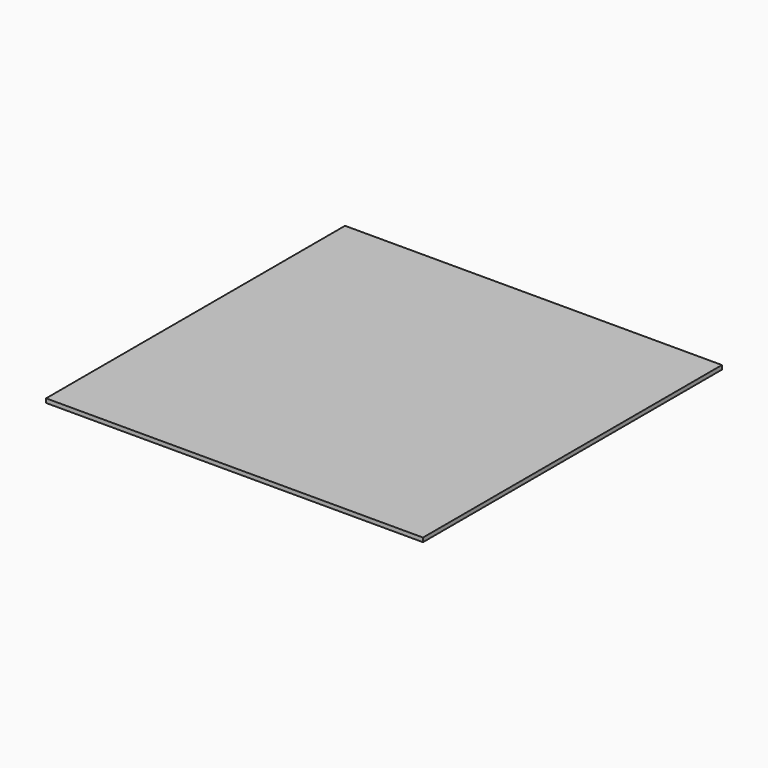
from build123d import *

# Parameters (mm, degrees)
SKETCH_W      = 549.275
SKETCH_H      = 544.5252
EXTRUDE_DEPTH = 5.9944


with BuildPart() as part:
    # Sketch → Extrude (new body)
    with BuildSketch(Plane.XY):
        with Locations((11.976703, -12.863627)):
            Rectangle(SKETCH_W, SKETCH_H)
    extrude(amount=EXTRUDE_DEPTH)


solid = part.part
